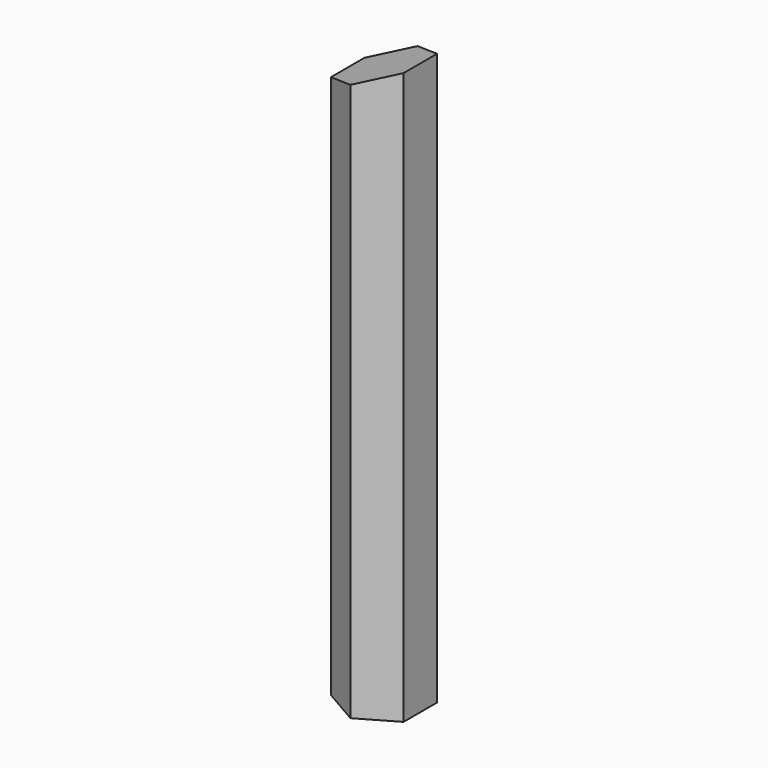
from build123d import *

# Parameters (mm, degrees)
F1_DEPTH = 50.8
F3_DEPTH = 12.7


with BuildPart() as f1:
    # F0 (on Top) → F1 (new body)
    with BuildSketch(Plane.XY):
        Polygon((0, 3.666174), (-3.175, 1.833087), (-3.175, -1.833087), (0, -3.666174), (3.175, -1.833087), (3.175, 1.833087), align=None)
    extrude(amount=F1_DEPTH)

    # F2 (on Front) → F3 (cut, symmetric)
    with BuildSketch(Plane.XZ):
        Polygon((-6.354235, 54.107219), (-6.183569, 46.427269), (5.677683, 50.864574), (5.677683, 54.107219), align=None)
    extrude(amount=F3_DEPTH, both=True, mode=Mode.SUBTRACT)


solid = f1.part
